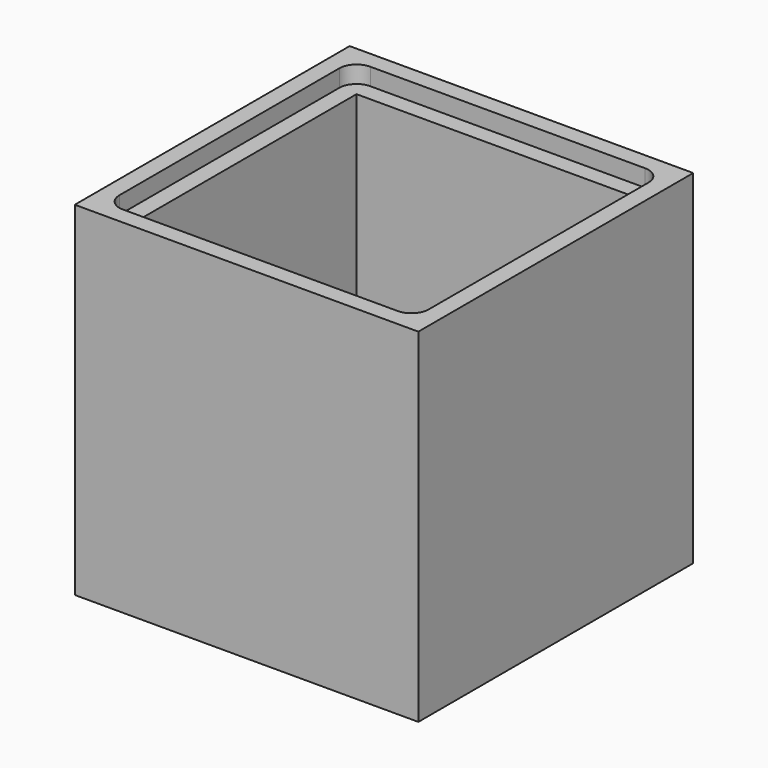
from build123d import *

# Parameters (mm, degrees)
F0_W     = 127
F0_H     = 127
F1_DEPTH = 127
F3_DEPTH = 6.35
F4_W     = 101.6
F4_H     = 101.6
F5_DEPTH = 127


with BuildPart() as f1:
    # F0 (on Top) → F1 (new body)
    with BuildSketch(Plane.XY):
        Rectangle(F0_W, F0_H)
    extrude(amount=F1_DEPTH)

    # F2 (on face) → F3 (cut)
    with BuildSketch(Plane.XY.offset(127)):
        with BuildLine():
            Line((-50.8, -57.15), (50.8, -57.15))
            ThreePointArc((50.8, -57.15), (55.290128, -55.290128), (57.15, -50.8))
            Line((57.15, -50.8), (57.15, 50.8))
            ThreePointArc((57.15, 50.8), (55.290128, 55.290128), (50.8, 57.15))
            Line((50.8, 57.15), (-50.8, 57.15))
            ThreePointArc((-50.8, 57.15), (-55.290128, 55.290128), (-57.15, 50.8))
            Line((-57.15, 50.8), (-57.15, -50.8))
            ThreePointArc((-57.15, -50.8), (-55.290128, -55.290128), (-50.8, -57.15))
        make_face()
    extrude(amount=-F3_DEPTH, mode=Mode.SUBTRACT)

    # F4 (on face) → F5 (cut)
    with BuildSketch(Plane.XY.offset(120.65)):
        Rectangle(F4_W, F4_H)
    extrude(amount=-F5_DEPTH, mode=Mode.SUBTRACT)


solid = f1.part
